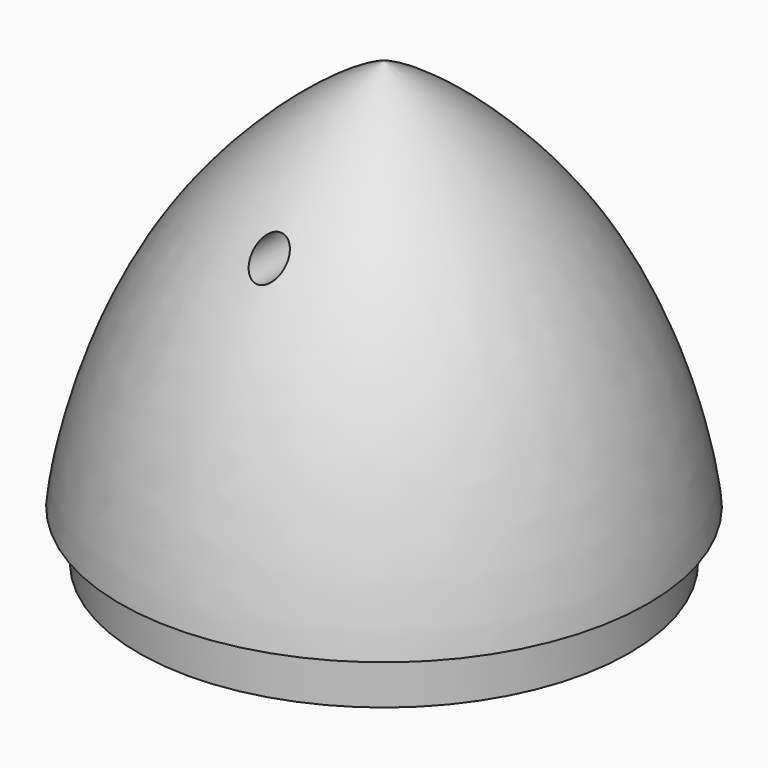
from build123d import *

# Parameters (mm, degrees)
F4_R     = 2.0584538579
F5_DEPTH = 47.2


with BuildPart() as f2:
    # F0 (on Front) → F2 (revolve)
    with BuildSketch(Plane.XZ):
        with BuildLine():
            Line((16.581, 117.7776088037), (29.75, 117.7776088037))
            Line((29.75, 117.7776088037), (29.75, 123.7776088037))
            Line((29.75, 123.7776088037), (32, 123.7776088037))
            add(Edge.make_bspline(
                [(0, 171.2776088037), (5.9470960936, 168.8616789685), (25.3661042634, 153.2150951784), (31.2344838147, 130.2664517532), (32, 123.7776088037)],
                knots=[0, 0, 0, 0, 0.5018196841, 1, 1, 1, 1], degree=3))
            Line((0, 171.2776088037), (0, 151.2776088037))
            add(Edge.make_bspline(
                [(0, 151.2776088037), (5.342741727, 147.9247237065), (11.9012019321, 138.0863396516), (16.2041531537, 123.9956529292), (16.581, 117.7776088037)],
                knots=[0, 0, 0, 0, 0.4828600431, 1, 1, 1, 1], degree=3))
        make_face()
    revolve(axis=Axis((0, 0, 23.8414118066), (0, 0, -1)))

    # F4 (on offset) → F5 (cut)
    with BuildSketch(Plane.XZ.offset(25)):
        with Locations((0, 157.3246270418)):
            Circle(F4_R)
    extrude(amount=-F5_DEPTH, mode=Mode.SUBTRACT)


solid = f2.part
